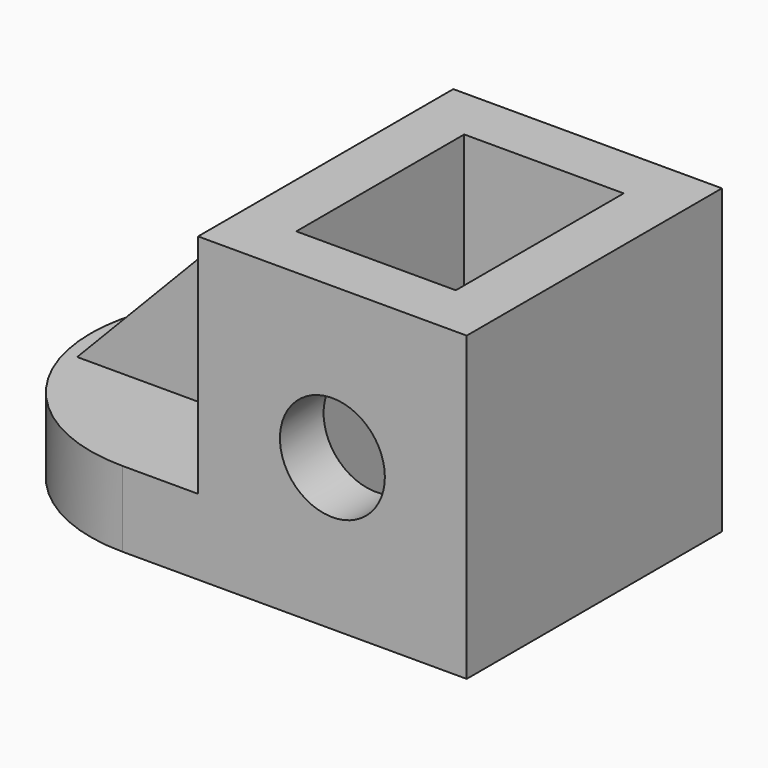
from build123d import *

# Parameters (mm, degrees)
F0_R     = 12.5
F1_DEPTH = 76
F2_W     = 38
F2_H     = 50
F3_DEPTH = 98.3
F5_DEPTH = 25
F7_DEPTH = 54
F9_DEPTH = 44.5


with BuildPart() as f1:
    # F0 (on Front) → F1 (new body)
    with BuildSketch(Plane.XZ):
        Polygon((0, 18), (0, 0), (120, 0), (120, 72), (56, 72), (56, 18), align=None)
        with Locations((88, 36)):
            Circle(F0_R, mode=Mode.SUBTRACT)
    extrude(amount=-F1_DEPTH)

    # F2 (on face) → F3 (cut)
    with BuildSketch(Plane.XY.offset(72)):
        with Locations((88, 38)):
            Rectangle(F2_W, F2_H)
    extrude(amount=-F3_DEPTH, mode=Mode.SUBTRACT)

    # F4 (on face) → F5 (cut)
    with BuildSketch(Plane.XY.offset(18)):
        with BuildLine():
            ThreePointArc((0, 38), (11.129942, 64.870058), (38, 76))
            Line((38, 76), (0, 76))
            Line((0, 76), (0, 38))
        make_face()
        with BuildLine():
            ThreePointArc((38, 0), (11.129942, 11.129942), (0, 38))
            Line((0, 38), (0, 0))
            Line((0, 0), (38, 0))
        make_face()
    extrude(amount=-F5_DEPTH, mode=Mode.SUBTRACT)

    # F6 (on face) → F7 (join)
    with BuildSketch(Plane.XY.offset(18)):
        Polygon((56, 40), (56, 51), (4, 51), (4, 29), (56, 29), align=None)
    extrude(amount=F7_DEPTH)

    # F8 (on face) → F9 (cut)
    with BuildSketch(Plane.XZ.offset(-29)):
        Polygon((4, 18), (56, 72), (4, 72), align=None)
    extrude(amount=-F9_DEPTH, mode=Mode.SUBTRACT)


solid = f1.part
